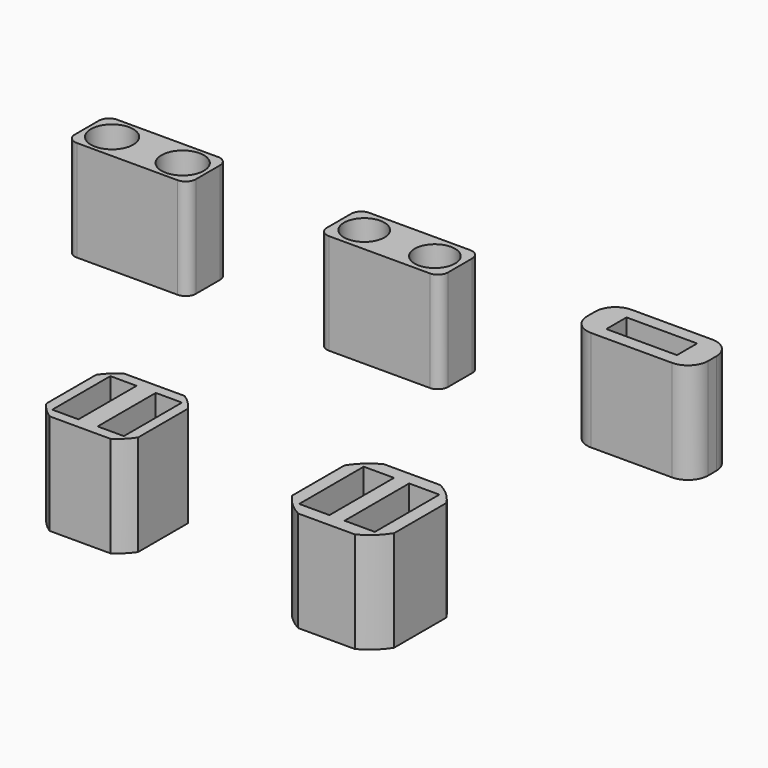
from build123d import *

# Parameters (mm, degrees)
F0_W      = 12
F0_H      = 5
F0_R      = 2
F1_DEPTH  = 10
F2_DEPTH  = 3.5
F4_R      = 1
F0_W_2    = 7
F0_H_2    = 2.5
F5_DEPTH  = 10
F7_DEPTH  = 2.5
F8_DEPTH  = 5
F9_R      = 2
F10_DEPTH = 5
F0_W_3    = 2.6
F0_H_3    = 7.2
F11_DEPTH = 10
F12_DEPTH = 2.8
F14_DEPTH = 5
F0_W_4    = 3
F0_H_4    = 8
F15_DEPTH = 10
F16_DEPTH = 3.5
F18_DEPTH = 5
F0_R_2    = 2.1
F19_DEPTH = 10
F20_DEPTH = 4.25
F22_DEPTH = 5
F23_R     = 1


with BuildPart() as f1:
    # F0 (on Top) → F1 (new body)
    with BuildSketch(Plane.XY):
        with Locations((0, -10)):
            Rectangle(F0_W, F0_H)
        with Locations((-3.5, -10)):
            Circle(F0_R, mode=Mode.SUBTRACT)
        with Locations((3.5, -10)):
            Circle(F0_R, mode=Mode.SUBTRACT)
        with Locations((-3.5, -10)):
            Circle(F0_R)
        with Locations((3.5, -10)):
            Circle(F0_R)
    extrude(amount=-F1_DEPTH)

    # F0 (on Top) → F2 (cut)
    with BuildSketch(Plane.XY):
        with Locations((-3.5, -10)):
            Circle(F0_R)
        with Locations((3.5, -10)):
            Circle(F0_R)
    extrude(amount=-F2_DEPTH, mode=Mode.SUBTRACT)

    # F4
    f4_edges = [f1.edges().sort_by_distance(p)[0] for p in [
        (6, -12.5, -5),
        (6, -7.5, -5),
        (-6, -12.5, -5),
        (-6, -7.5, -5),
    ]]
    fillet(f4_edges, radius=F4_R)

    # F3 (on face) → F10 (cut)
    with BuildSketch(Plane(origin=(0, 0, -10), x_dir=(1, 0, 0), z_dir=(0, 0, -1))):
        with BuildLine():
            ThreePointArc((1.2, 9.1), (1.4230249471, 9.525658351), (1.5, 10))
            ThreePointArc((1.5, 10), (-0.474341649, 11.4230249471), (-1.2, 9.1))
            Line((-1.2, 9.1), (1.2, 9.1))
        make_face()
    extrude(amount=-F10_DEPTH, mode=Mode.SUBTRACT)


with BuildPart() as f5:
    # F0 (on Top) → F5 (new body)
    with BuildSketch(Plane.XY):
        with Locations((25, -10)):
            Rectangle(F0_W, F0_H)
        with Locations((25, -10)):
            Rectangle(F0_W_2, F0_H_2, mode=Mode.SUBTRACT)
        with Locations((25, -10)):
            Rectangle(F0_W_2, F0_H_2)
    extrude(amount=-F5_DEPTH)

    # F0 (on Top) → F7 (cut)
    with BuildSketch(Plane.XY):
        with Locations((25, -10)):
            Rectangle(F0_W_2, F0_H_2)
    extrude(amount=-F7_DEPTH, mode=Mode.SUBTRACT)

    # F6 (on face) → F8 (cut)
    with BuildSketch(Plane(origin=(0, 0, -10), x_dir=(1, 0, 0), z_dir=(0, 0, -1))):
        with BuildLine():
            ThreePointArc((26.2, 9.1), (26.4230249471, 9.525658351), (26.5, 10))
            ThreePointArc((26.5, 10), (24.525658351, 11.4230249471), (23.8, 9.1))
            Line((23.8, 9.1), (26.2, 9.1))
        make_face()
    extrude(amount=-F8_DEPTH, mode=Mode.SUBTRACT)

    # F9
    f9_edges = [f5.edges().sort_by_distance(p)[0] for p in [
        (19, -12.5, -5),
        (31, -12.5, -5),
        (31, -7.5, -5),
        (19, -7.5, -5),
    ]]
    fillet(f9_edges, radius=F9_R)


with BuildPart() as f11:
    # F0 (on Top) → F11 (new body)
    with BuildSketch(Plane.XY):
        with BuildLine():
            Line((4.55, -48.0899029111), (4.55, -41.9100970889))
            ThreePointArc((4.55, -41.9100970889), (3.8571055749, -41.0791918455), (3.0149626863, -40.4))
            Line((3.0149626863, -40.4), (-3.0149626863, -40.4))
            ThreePointArc((-3.0149626863, -40.4), (-3.8571055749, -41.0791918455), (-4.55, -41.9100970889))
            Line((-4.55, -41.9100970889), (-4.55, -48.0899029111))
            ThreePointArc((-4.55, -48.0899029111), (-3.8571055749, -48.9208081545), (-3.0149626863, -49.6))
            Line((-3.0149626863, -49.6), (3.0149626863, -49.6))
            ThreePointArc((3.0149626863, -49.6), (3.8571055749, -48.9208081545), (4.55, -48.0899029111))
        make_face()
        with Locations((-2.25, -45)):
            Rectangle(F0_W_3, F0_H_3, mode=Mode.SUBTRACT)
        with Locations((2.25, -45)):
            Rectangle(F0_W_3, F0_H_3, mode=Mode.SUBTRACT)
        with Locations((-2.25, -45)):
            Rectangle(F0_W_3, F0_H_3)
        with Locations((2.25, -45)):
            Rectangle(F0_W_3, F0_H_3)
    extrude(amount=-F11_DEPTH)

    # F0 (on Top) → F12 (cut)
    with BuildSketch(Plane.XY):
        with Locations((-2.25, -45)):
            Rectangle(F0_W_3, F0_H_3)
        with Locations((2.25, -45)):
            Rectangle(F0_W_3, F0_H_3)
    extrude(amount=-F12_DEPTH, mode=Mode.SUBTRACT)

    # F13 (on face) → F14 (cut)
    with BuildSketch(Plane(origin=(0, 0, -10), x_dir=(1, 0, 0), z_dir=(0, 0, -1))):
        with BuildLine():
            ThreePointArc((1.2489995997, 44), (1.5097018513, 44.4700940458), (1.6, 45))
            ThreePointArc((1.6, 45), (-0.5299059542, 46.5097018513), (-1.2489995997, 44))
            Line((-1.2489995997, 44), (1.2489995997, 44))
        make_face()
    extrude(amount=-F14_DEPTH, mode=Mode.SUBTRACT)


with BuildPart() as f15:
    # F0 (on Top) → F15 (new body)
    with BuildSketch(Plane.XY):
        with BuildLine():
            Line((30.05, -48.2399845679), (30.05, -41.7600154321))
            ThreePointArc((30.05, -41.7600154321), (29.0639307642, -40.5858787121), (27.8124722221, -39.7))
            Line((27.8124722221, -39.7), (22.1875277779, -39.7))
            ThreePointArc((22.1875277779, -39.7), (20.9360692358, -40.5858787121), (19.95, -41.7600154321))
            Line((19.95, -41.7600154321), (19.95, -48.2399845679))
            ThreePointArc((19.95, -48.2399845679), (20.9360692358, -49.4141212879), (22.1875277779, -50.3))
            Line((22.1875277779, -50.3), (27.8124722221, -50.3))
            ThreePointArc((27.8124722221, -50.3), (29.0639307642, -49.4141212879), (30.05, -48.2399845679))
        make_face()
        with Locations((22.75, -45)):
            Rectangle(F0_W_4, F0_H_4, mode=Mode.SUBTRACT)
        with Locations((27.25, -45)):
            Rectangle(F0_W_4, F0_H_4, mode=Mode.SUBTRACT)
        with Locations((22.75, -45)):
            Rectangle(F0_W_4, F0_H_4)
        with Locations((27.25, -45)):
            Rectangle(F0_W_4, F0_H_4)
    extrude(amount=-F15_DEPTH)

    # F0 (on Top) → F16 (cut)
    with BuildSketch(Plane.XY):
        with Locations((22.75, -45)):
            Rectangle(F0_W_4, F0_H_4)
        with Locations((27.25, -45)):
            Rectangle(F0_W_4, F0_H_4)
    extrude(amount=-F16_DEPTH, mode=Mode.SUBTRACT)

    # F17 (on face) → F18 (cut)
    with BuildSketch(Plane(origin=(0, 0, -10), x_dir=(1, 0, 0), z_dir=(0, 0, -1))):
        with BuildLine():
            ThreePointArc((26.3610657589, 43.9), (26.6499037969, 44.4166326535), (26.75, 45))
            ThreePointArc((26.75, 45), (24.4166326535, 46.6499037969), (23.6389342411, 43.9))
            Line((23.6389342411, 43.9), (26.3610657589, 43.9))
        make_face()
    extrude(amount=-F18_DEPTH, mode=Mode.SUBTRACT)


with BuildPart() as f19:
    # F0 (on Top) → F19 (new body)
    with BuildSketch(Plane.XY):
        with Locations((-25, -10)):
            Rectangle(F0_W, F0_H)
        with Locations((-28.5, -10)):
            Circle(F0_R_2, mode=Mode.SUBTRACT)
        with Locations((-21.5, -10)):
            Circle(F0_R_2, mode=Mode.SUBTRACT)
        with Locations((-21.5, -10)):
            Circle(F0_R_2)
        with Locations((-28.5, -10)):
            Circle(F0_R_2)
    extrude(amount=-F19_DEPTH)

    # F0 (on Top) → F20 (cut)
    with BuildSketch(Plane.XY):
        with Locations((-21.5, -10)):
            Circle(F0_R_2)
        with Locations((-28.5, -10)):
            Circle(F0_R_2)
    extrude(amount=-F20_DEPTH, mode=Mode.SUBTRACT)

    # F21 (on face) → F22 (cut)
    with BuildSketch(Plane(origin=(0, 0, -10), x_dir=(1, 0, 0), z_dir=(0, 0, -1))):
        with BuildLine():
            ThreePointArc((-23.6389342411, 8.9), (-23.3500962031, 9.4166326535), (-23.25, 10))
            ThreePointArc((-23.25, 10), (-25.5833673465, 11.6499037969), (-26.3610657589, 8.9))
            Line((-26.3610657589, 8.9), (-23.6389342411, 8.9))
        make_face()
    extrude(amount=-F22_DEPTH, mode=Mode.SUBTRACT)

    # F23
    f23_edges = [f19.edges().sort_by_distance(p)[0] for p in [
        (-31, -7.5, -5),
        (-31, -12.5, -5),
        (-19, -7.5, -5),
        (-19, -12.5, -5),
    ]]
    fillet(f23_edges, radius=F23_R)


solid = Compound([f1.part, f5.part, f11.part, f15.part, f19.part])
